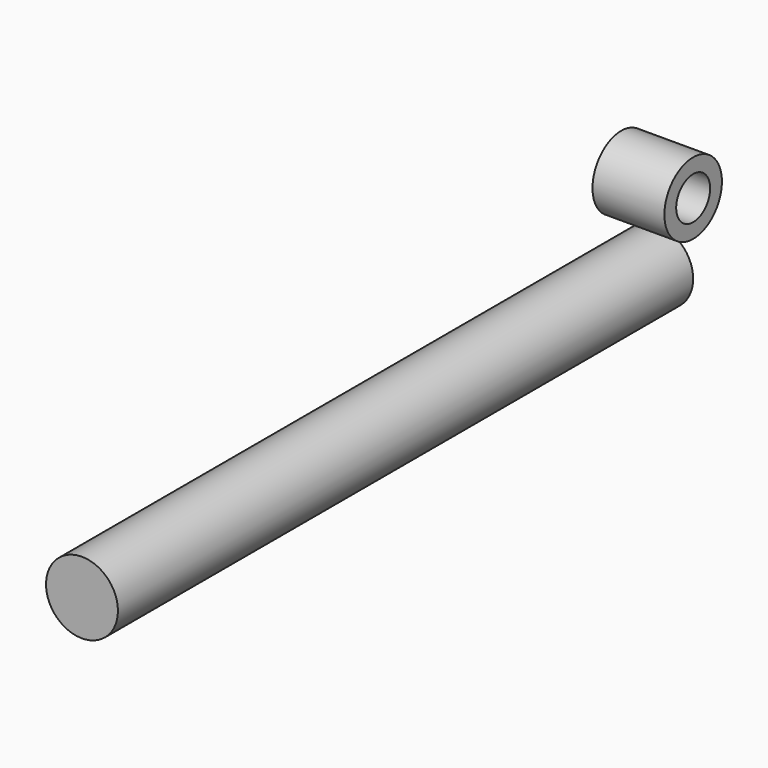
from build123d import *

# Parameters (mm, degrees)
F0_R     = 50
F1_DEPTH = 500
F2_R     = 50
F3_DEPTH = 50
F4_R     = 29.505367
F5_DEPTH = 500.001


with BuildPart() as f1:
    # F0 (on Front) → F1 (new body, symmetric)
    with BuildSketch(Plane.XZ):
        with Locations((-400, 0)):
            Circle(F0_R)
    extrude(amount=F1_DEPTH, both=True)


with BuildPart() as f3:
    # F2 (on Right) → F3 (new body, symmetric)
    with BuildSketch(Plane.YZ):
        with Locations((0, 432.132691)):
            Circle(F2_R)
    extrude(amount=F3_DEPTH, both=True)

    # F4 (on face) → F5 (cut, through all)
    with BuildSketch(Plane.YZ.offset(50)):
        with Locations((0, 432.132691)):
            Circle(F4_R)
    extrude(amount=-F5_DEPTH, mode=Mode.SUBTRACT)


solid = Compound([f1.part, f3.part])
